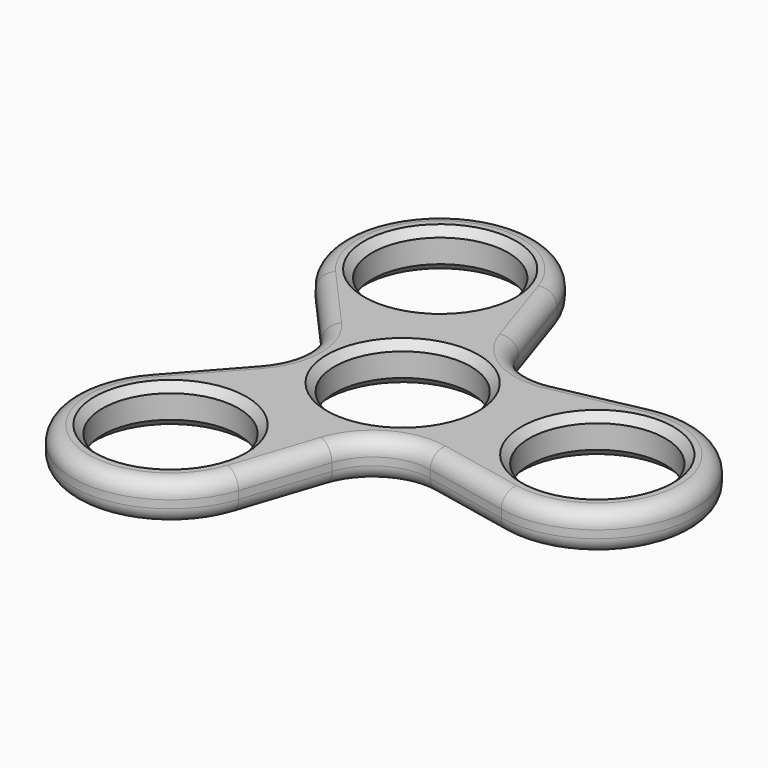
from build123d import *

# Parameters (mm, degrees)
F0_R     = 47.625
F1_DEPTH = 6.35
F2_R     = 11.1125
F3_DEPTH = 6.351
F4_R     = 9.525
F5_DEPTH = 6.351
F6_R     = 56.6626393047
F7_DEPTH = 6.351
F8_R     = 2.54
F9_SIZE  = 1.27


with BuildPart() as f1:
    # F0 (on Top) → F1 (new body)
    with BuildSketch(Plane.XY):
        Circle(F0_R)
    extrude(amount=F1_DEPTH)

    # F2 (on face) → F3 (cut, through all)
    with BuildSketch(Plane.XY.offset(6.35)):
        with Locations((-15.875, -27.4963065702)):
            Circle(F2_R)
        Circle(F2_R)
        with Locations((31.75, 0)):
            Circle(F2_R)
        with Locations((-15.875, 27.4963065702)):
            Circle(F2_R)
    extrude(amount=-F3_DEPTH, mode=Mode.SUBTRACT)

    # F4 (on face) → F5 (cut, through all)
    with BuildSketch(Plane.XY.offset(6.35)):
        with Locations((12.7, 21.9970452561)):
            Circle(F4_R)
        with Locations((-25.4, 0)):
            Circle(F4_R)
        with Locations((12.7, -21.9970452561)):
            Circle(F4_R)
    extrude(amount=-F5_DEPTH, mode=Mode.SUBTRACT)

    # F6 (on face) → F7 (cut, through all)
    with BuildSketch(Plane.XY.offset(6.35)):
        Circle(F6_R)
        with BuildLine():
            ThreePointArc((-23.8124980446, 41.2444609842), (23.8125009777, 41.2444592907), (47.625, 0))
            ThreePointArc((47.625, 0), (23.8125012223, -41.2444591495), (-23.8124975554, -41.2444612666))
            ThreePointArc((-23.8124975554, -41.2444612666), (-47.625, -2.824e-07), (-23.8124980446, 41.2444609842))
        make_face(mode=Mode.SUBTRACT)
        with BuildLine():
            ThreePointArc((-27.7301917406, 16.9383686184), (-31.5477206878, 30.0224600182), (-23.8124980446, 41.2444609842))
            ThreePointArc((-23.8124980446, 41.2444609842), (-47.625, -2.824e-07), (-23.8124975554, -41.2444612666))
            ThreePointArc((-23.8124975554, -41.2444612666), (-31.5477206428, -30.022460297), (-27.7301917406, -16.9383686184))
            Line((-27.7301917406, -16.9383686184), (-18.2868849556, -6.3347627711))
            ThreePointArc((-18.2868849556, -6.3347627711), (-34.925, 0), (-18.2868849556, 6.3347627711))
            Line((-18.2868849556, 6.3347627711), (-27.7301917406, 16.9383686184))
        make_face()
        with BuildLine():
            ThreePointArc((47.625, 0), (41.7740725283, -12.3098982509), (28.5341533925, -15.54586619))
            Line((28.5341533925, -15.54586619), (14.6295079645, -12.6695255421))
            ThreePointArc((14.6295079645, -12.6695255421), (20.0859389505, -15.9826017391), (22.225, -21.9970452561))
            ThreePointArc((22.225, -21.9970452561), (11.1843085999, -31.4006777766), (3.6573769911, -19.0042883132))
            Line((3.6573769911, -19.0042883132), (-0.8039616519, -32.4842348084))
            ThreePointArc((-0.8039616519, -32.4842348084), (-10.2263503419, -42.3323566523), (-23.8124975554, -41.2444612666))
            ThreePointArc((-23.8124975554, -41.2444612666), (23.8125012223, -41.2444591495), (47.625, 0))
        make_face()
        with BuildLine():
            ThreePointArc((28.5341533925, 15.54586619), (41.7740725283, 12.3098982509), (47.625, 0))
            ThreePointArc((47.625, 0), (23.8125009777, 41.2444592907), (-23.8124980446, 41.2444609842))
            ThreePointArc((-23.8124980446, 41.2444609842), (-10.2263506058, 42.3323567528), (-0.8039616519, 32.4842348084))
            Line((-0.8039616519, 32.4842348084), (3.6573769911, 19.0042883132))
            ThreePointArc((3.6573769911, 19.0042883132), (11.1843085999, 31.4006777766), (22.225, 21.9970452561))
            ThreePointArc((22.225, 21.9970452561), (20.0859389505, 15.9826017391), (14.6295079645, 12.6695255421))
            Line((14.6295079645, 12.6695255421), (28.5341533925, 15.54586619))
        make_face()
    extrude(amount=-F7_DEPTH, mode=Mode.SUBTRACT)

    # F8
    f8_edges = [f1.edges().sort_by_distance(p)[0] for p in [
        (-23.8125, -41.24446, 6.35),
        (1.426708, -25.744262, 6.35),
        (7.9375, -13.748153, 0),
    ]]
    fillet(f8_edges, radius=F8_R)

    # F9
    f9_edges = [f1.edges().sort_by_distance(p)[0] for p in [
        (-26.9875, -27.496307, 6.35),
        (-26.9875, -27.496307, 0),
        (-11.1125, 0, 0),
        (-11.1125, 0, 6.35),
        (-26.9875, 27.496307, 0),
        (-26.9875, 27.496307, 6.35),
        (20.6375, 0, 0),
        (20.6375, 0, 6.35),
    ]]
    chamfer(f9_edges, length=F9_SIZE)


with BuildPart() as f10_1:
    # F10: copy of F1
    add(f1.part.moved(Location((76.2, 0, 0))))


solid = f1.part
